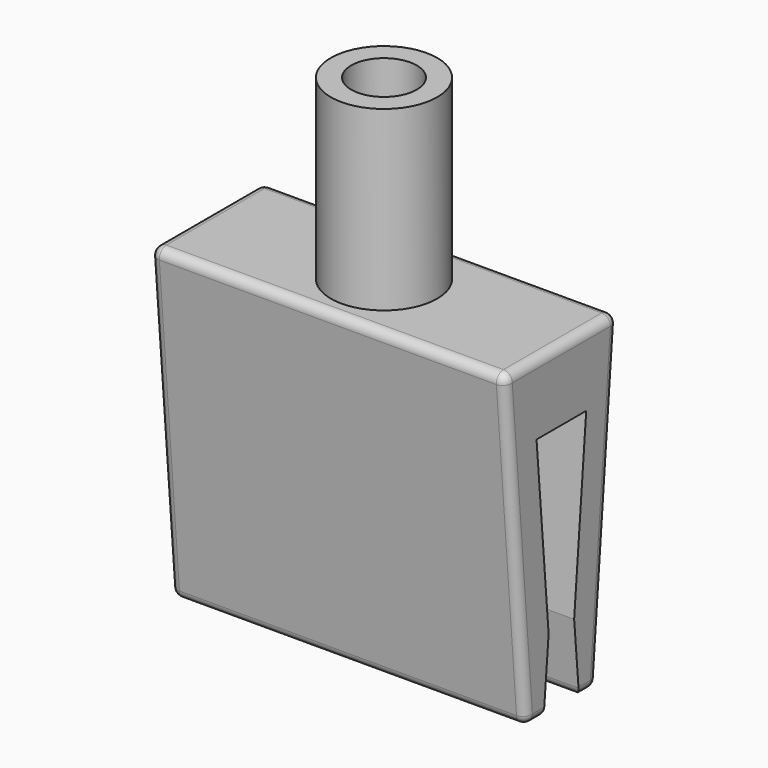
from build123d import *

# Parameters (mm, degrees)
F1_DEPTH = 10
F3_DEPTH = 25
F4_R     = 0.5
F5_R     = 3
F5_R_2   = 1.85
F6_DEPTH = 10


with BuildPart() as f1:
    # F0 (on Right) → F1 (new body, symmetric)
    with BuildSketch(Plane.YZ):
        Polygon((-45.5818854975, 27.2887923438), (-44.0818854975, 9.2887923438), (-39.0818854975, 9.2887923438), (-37.5818854975, 27.2887923438), align=None)
    extrude(amount=F1_DEPTH, both=True)

    # F2 (on face) → F3 (cut)
    with BuildSketch(Plane.YZ.offset(10)):
        Polygon((-42.8318854975, 9.2887923438), (-40.3318854975, 9.2887923438), (-40.6818854975, 13.2887923438), (-39.8318854975, 23.2887923438), (-41.5818854975, 23.2887923438), (-43.3318854975, 23.2887923438), (-42.4818854975, 13.2887923438), align=None)
    extrude(amount=-F3_DEPTH, mode=Mode.SUBTRACT)

    # F4
    f4_edges = [f1.edges().sort_by_distance(p)[0] for p in [
        (10, -44.831885, 18.288792),
        (10, -41.581885, 27.288792),
        (10, -38.331885, 18.288792),
        (0, -39.081885, 9.288792),
        (0, -44.081885, 9.288792),
        (-10, -44.831885, 18.288792),
        (-10, -38.331885, 18.288792),
        (0, -37.581885, 27.288792),
        (0, -45.581885, 27.288792),
        (-10, -41.581885, 27.288792),
        (-10, -39.706885, 9.288792),
        (0, -40.331885, 9.288792),
        (-10, -43.456885, 9.288792),
        (0, -42.831885, 9.288792),
        (10, -39.706885, 9.288792),
        (10, -43.456885, 9.288792),
    ]]
    fillet(f4_edges, radius=F4_R)

    # F5 (on face) → F6 (join)
    with BuildSketch(Plane.XY.offset(27.2887923438)):
        with Locations((0, -41.5818854975)):
            Circle(F5_R)
        with Locations((0, -41.5818854975)):
            Circle(F5_R_2, mode=Mode.SUBTRACT)
    extrude(amount=F6_DEPTH)


solid = f1.part
